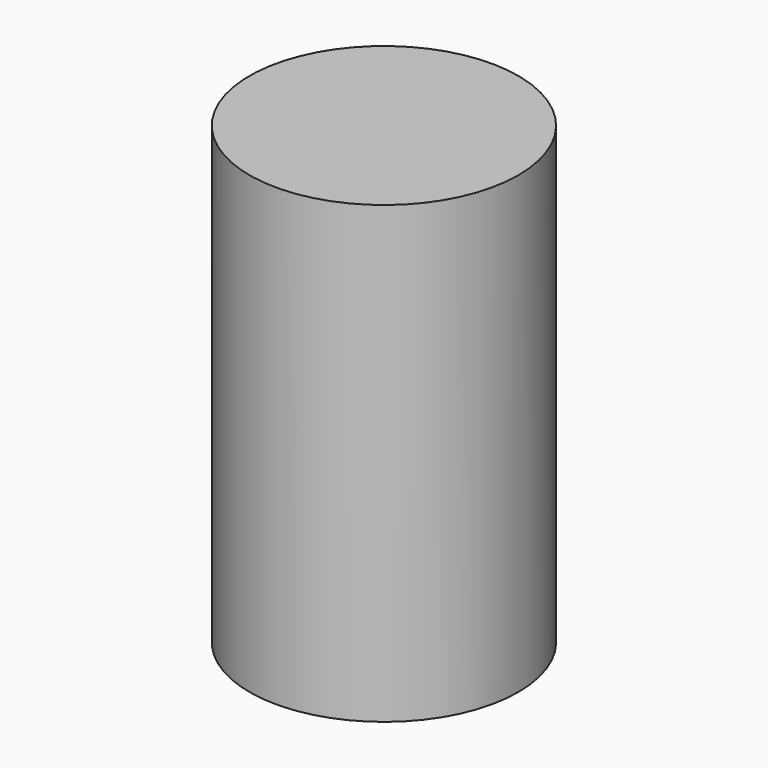
from build123d import *

# Parameters (mm, degrees)
CYLINDER_R     = 4.4323
CYLINDER_DEPTH = 15


with BuildPart() as part:
    # Cylinder → Cylinder (new body)
    with BuildSketch(Plane.XY.offset(-2.5)):
        Circle(CYLINDER_R)
    extrude(amount=CYLINDER_DEPTH)


solid = part.part
